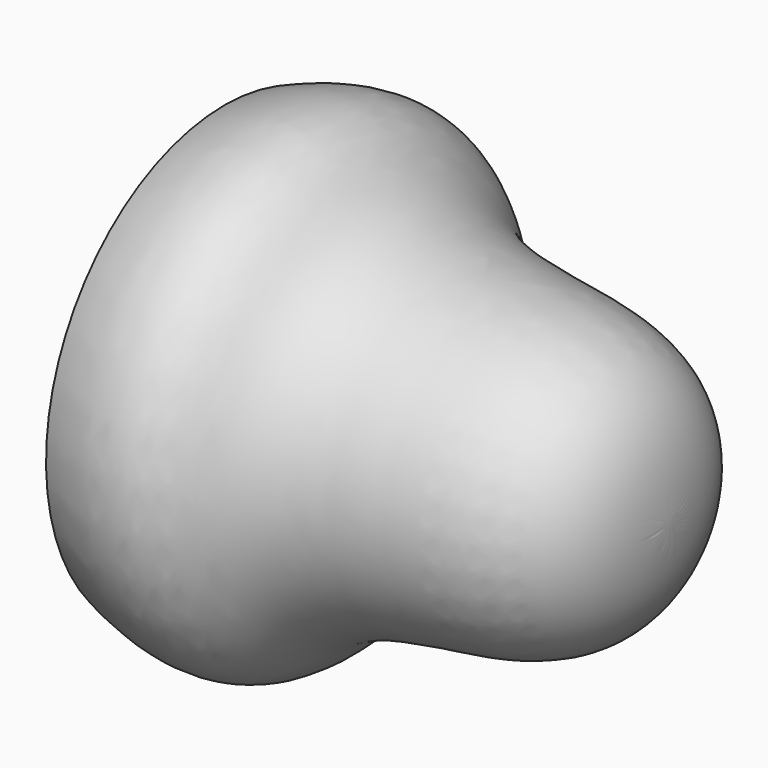
from build123d import *


with BuildPart() as f1:
    # F0 (on Front) → F1 (revolve)
    with BuildSketch(Plane.XZ):
        with BuildLine():
            Line((0, 44.45), (0, 0))
            Line((0, 0), (88.9, 0))
            add(Edge.make_bspline(
                [(88.9, 0), (88.9, 27.8557343647), (53.8899379707, 29.7210771187), (28.5285291386, 35.9712367906), (20.5118190497, 52.8661310673), (0, 44.45)],
                knots=[0, 0, 0, 0, 0.3914773923, 0.6760813792, 1, 1, 1, 1], degree=3))
        make_face()
    revolve(axis=Axis((44.45, 0, 0), (1, 0, 0)))


solid = f1.part
